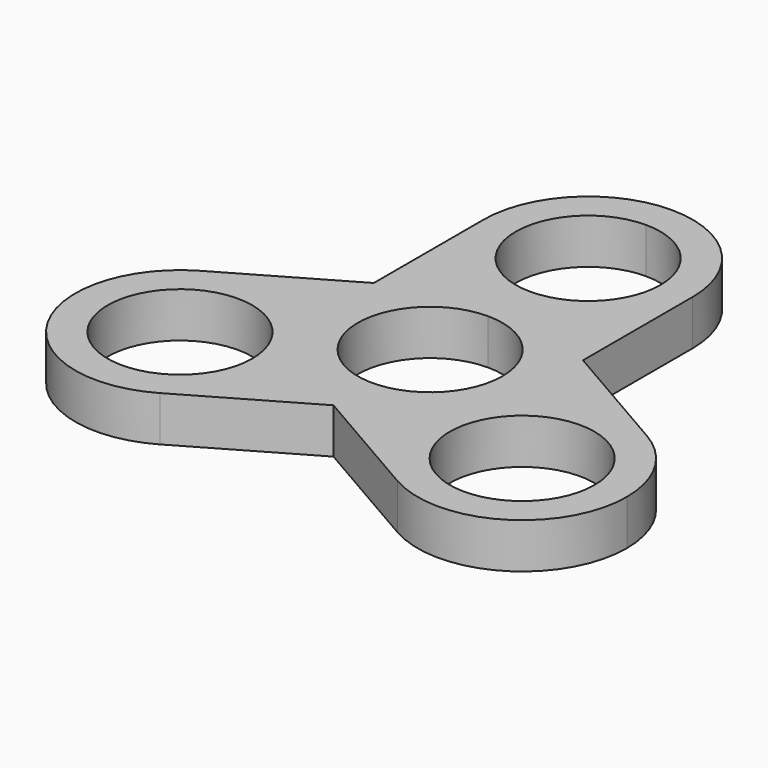
from build123d import *

# Parameters (mm, degrees)
F0_R     = 11.2
F1_DEPTH = 7


with BuildPart() as f1:
    # F0 (on Top) → F1 (new body)
    with BuildSketch(Plane.XY):
        with BuildLine():
            ThreePointArc((-10.5879527755, -12.2611278447), (-14.0296115413, -8.1), (-15.9124245803, -3.0388721553))
            ThreePointArc((-15.9124245803, -3.0388721553), (-24.9741529622, 0.8279459046), (-34.6003773558, -1.2703884587))
            ThreePointArc((-34.6003773558, -1.2703884587), (-40.5299888971, -23.4), (-18.4003773558, -29.3296115413))
            ThreePointArc((-18.4003773558, -29.3296115413), (-12.4707658145, -23.4), (-10.3003773558, -15.3))
            ThreePointArc((-10.3003773558, -15.3), (-10.3724314512, -13.7737756064), (-10.5879527755, -12.2611278447))
        make_face()
        with Locations((-26.5003773558, -15.3)):
            Circle(F0_R, mode=Mode.SUBTRACT)
        with BuildLine():
            ThreePointArc((-15.9124245803, -3.0388721553), (-16.1279459046, -1.5262243936), (-16.2, 0))
            Line((-16.2, 0), (-16.2, 9.3530743609))
            Line((-16.2, 9.3530743609), (-34.6003773558, -1.2703884587))
            ThreePointArc((-34.6003773558, -1.2703884587), (-24.9741529622, 0.8279459046), (-15.9124245803, -3.0388721553))
        make_face()
        with BuildLine():
            ThreePointArc((-10.5879527755, -12.2611278447), (-12.4707658145, -7.2), (-15.9124245803, -3.0388721553))
            ThreePointArc((-15.9124245803, -3.0388721553), (-14.0296115413, -8.1), (-10.5879527755, -12.2611278447))
        make_face()
        with BuildLine():
            ThreePointArc((5.3244718048, 15.3), (2.7, 14.6265845856), (0, 14.4))
            ThreePointArc((0, 14.4), (-2.7, 14.6265845856), (-5.3244718048, 15.3))
            ThreePointArc((-5.3244718048, 15.3), (-6.7422238556, 14.730323061), (-8.1, 14.0296115413))
            ThreePointArc((-8.1, 14.0296115413), (-14.0296115413, 8.1), (-16.2, 0))
            ThreePointArc((-16.2, 0), (-16.1279459046, -1.5262243936), (-15.9124245803, -3.0388721553))
            ThreePointArc((-15.9124245803, -3.0388721553), (-12.4707658145, -7.2), (-10.5879527755, -12.2611278447))
            ThreePointArc((-10.5879527755, -12.2611278447), (-9.385722049, -13.2040986674), (-8.1, -14.0296115413))
            ThreePointArc((-8.1, -14.0296115413), (0, -16.2), (8.1, -14.0296115413))
            ThreePointArc((8.1, -14.0296115413), (9.385722049, -13.2040986674), (10.5879527755, -12.2611278447))
            ThreePointArc((10.5879527755, -12.2611278447), (12.4707658145, -7.2), (15.9124245803, -3.0388721553))
            ThreePointArc((15.9124245803, -3.0388721553), (16.1279459046, -1.5262243936), (16.2, 0))
            ThreePointArc((16.2, 0), (14.0296115413, 8.1), (8.1, 14.0296115413))
            ThreePointArc((8.1, 14.0296115413), (6.7422238556, 14.730323061), (5.3244718048, 15.3))
        make_face()
        with BuildLine():
            ThreePointArc((0, 11.2), (7.9195959493, 7.9195959493), (11.2, 0))
            ThreePointArc((11.2, 0), (-7.9195959493, -7.9195959493), (0, 11.2))
        make_face(mode=Mode.SUBTRACT)
        with BuildLine():
            ThreePointArc((-16.2, 0), (-14.0296115413, 8.1), (-8.1, 14.0296115413))
            Line((-8.1, 14.0296115413), (-16.2, 9.3530743609))
            Line((-16.2, 9.3530743609), (-16.2, 0))
        make_face()
        with BuildLine():
            ThreePointArc((-8.1, 14.0296115413), (-6.7422238556, 14.730323061), (-5.3244718048, 15.3))
            ThreePointArc((-5.3244718048, 15.3), (-13.2040986674, 21.214277951), (-16.2, 30.6))
            Line((-16.2, 30.6), (-16.2, 9.3530743609))
            Line((-16.2, 9.3530743609), (-8.1, 14.0296115413))
        make_face()
        with BuildLine():
            Line((0, 16.2), (0, 14.4))
            ThreePointArc((0, 14.4), (2.7, 14.6265845856), (5.3244718048, 15.3))
            ThreePointArc((5.3244718048, 15.3), (2.7, 15.9734154144), (0, 16.2))
        make_face()
        with BuildLine():
            ThreePointArc((-5.3244718048, 15.3), (-2.7, 14.6265845856), (0, 14.4))
            Line((0, 14.4), (0, 16.2))
            ThreePointArc((0, 16.2), (-2.7, 15.9734154144), (-5.3244718048, 15.3))
        make_face()
        with BuildLine():
            ThreePointArc((-5.3244718048, 15.3), (-2.7, 15.9734154144), (0, 16.2))
            Line((0, 16.2), (0, 19.4))
            ThreePointArc((0, 19.4), (-11.2, 30.6), (0, 41.8))
            Line((0, 41.8), (0, 46.8))
            ThreePointArc((0, 46.8), (-11.4551298552, 42.0551298552), (-16.2, 30.6))
            ThreePointArc((-16.2, 30.6), (-13.2040986674, 21.214277951), (-5.3244718048, 15.3))
        make_face()
        with BuildLine():
            Line((0, 19.4), (0, 16.2))
            ThreePointArc((0, 16.2), (2.7, 15.9734154144), (5.3244718048, 15.3))
            ThreePointArc((5.3244718048, 15.3), (13.2040986674, 21.214277951), (16.2, 30.6))
            ThreePointArc((16.2, 30.6), (11.4551298552, 42.0551298552), (0, 46.8))
            Line((0, 46.8), (0, 41.8))
            ThreePointArc((0, 41.8), (7.9195959493, 38.5195959493), (11.2, 30.6))
            ThreePointArc((11.2, 30.6), (7.9195959493, 22.6804040507), (0, 19.4))
        make_face()
        with BuildLine():
            Line((16.2, 9.3530743609), (8.1, 14.0296115413))
            ThreePointArc((8.1, 14.0296115413), (14.0296115413, 8.1), (16.2, 0))
            Line((16.2, 0), (16.2, 9.3530743609))
        make_face()
        with BuildLine():
            ThreePointArc((16.2, 30.6), (13.2040986674, 21.214277951), (5.3244718048, 15.3))
            ThreePointArc((5.3244718048, 15.3), (6.7422238556, 14.730323061), (8.1, 14.0296115413))
            Line((8.1, 14.0296115413), (16.2, 9.3530743609))
            Line((16.2, 9.3530743609), (16.2, 30.6))
        make_face()
        with BuildLine():
            Line((16.2, 9.3530743609), (16.2, 0))
            ThreePointArc((16.2, 0), (16.1279459046, -1.5262243936), (15.9124245803, -3.0388721553))
            ThreePointArc((15.9124245803, -3.0388721553), (24.9741529622, 0.8279459046), (34.6003773558, -1.2703884587))
            Line((34.6003773558, -1.2703884587), (16.2, 9.3530743609))
        make_face()
        with BuildLine():
            ThreePointArc((18.4003773558, -29.3296115413), (11.7700542948, -22.0422238556), (10.5879527755, -12.2611278447))
            ThreePointArc((10.5879527755, -12.2611278447), (9.385722049, -13.2040986674), (8.1, -14.0296115413))
            Line((8.1, -14.0296115413), (0, -18.7061487217))
            Line((0, -18.7061487217), (18.4003773558, -29.3296115413))
        make_face()
        with BuildLine():
            ThreePointArc((-8.1, -14.0296115413), (-9.385722049, -13.2040986674), (-10.5879527755, -12.2611278447))
            ThreePointArc((-10.5879527755, -12.2611278447), (-10.3724314512, -13.7737756064), (-10.3003773558, -15.3))
            ThreePointArc((-10.3003773558, -15.3), (-12.4707658145, -23.4), (-18.4003773558, -29.3296115413))
            Line((-18.4003773558, -29.3296115413), (0, -18.7061487217))
            Line((0, -18.7061487217), (-8.1, -14.0296115413))
        make_face()
        with BuildLine():
            ThreePointArc((34.6003773558, -1.2703884587), (24.9741529622, 0.8279459046), (15.9124245803, -3.0388721553))
            ThreePointArc((15.9124245803, -3.0388721553), (14.0296115413, -8.1), (10.5879527755, -12.2611278447))
            ThreePointArc((10.5879527755, -12.2611278447), (11.7700542948, -22.0422238556), (18.4003773558, -29.3296115413))
            ThreePointArc((18.4003773558, -29.3296115413), (34.6003773558, -29.3296115413), (42.7003773558, -15.3))
            ThreePointArc((42.7003773558, -15.3), (40.5299888971, -7.2), (34.6003773558, -1.2703884587))
        make_face()
        with Locations((26.5003773558, -15.3)):
            Circle(F0_R, mode=Mode.SUBTRACT)
        with BuildLine():
            ThreePointArc((8.1, -14.0296115413), (0, -16.2), (-8.1, -14.0296115413))
            Line((-8.1, -14.0296115413), (0, -18.7061487217))
            Line((0, -18.7061487217), (8.1, -14.0296115413))
        make_face()
        with BuildLine():
            ThreePointArc((10.5879527755, -12.2611278447), (14.0296115413, -8.1), (15.9124245803, -3.0388721553))
            ThreePointArc((15.9124245803, -3.0388721553), (12.4707658145, -7.2), (10.5879527755, -12.2611278447))
        make_face()
    extrude(amount=F1_DEPTH)


solid = f1.part
